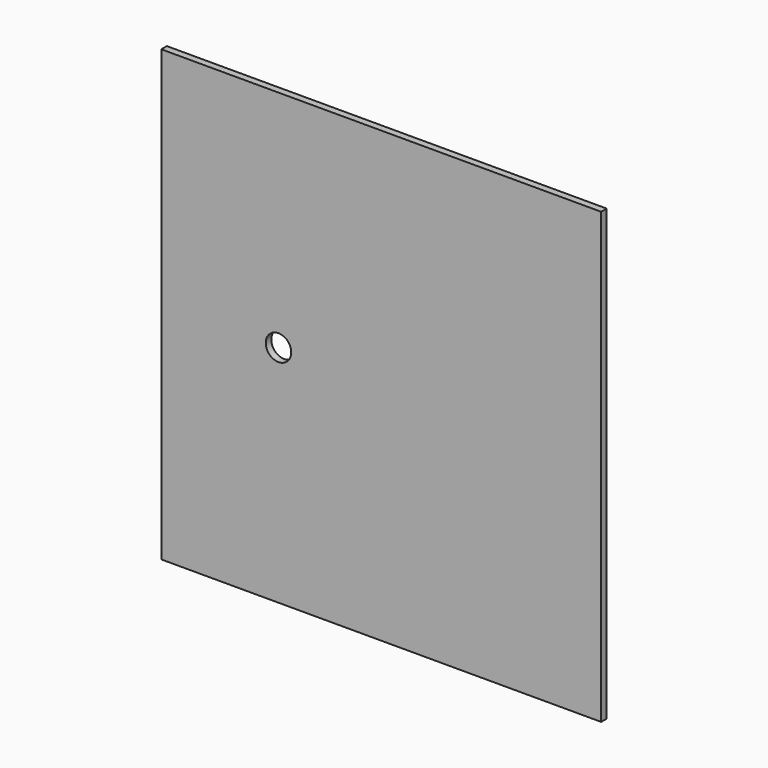
from build123d import *

# Parameters (mm, degrees)
F0_W     = 190
F0_H     = 194
F1_DEPTH = 3
F3_R     = 5.5
F4_DEPTH = 30


with BuildPart() as f1:
    # F0 (on Front) → F1 (new body)
    with BuildSketch(Plane.XZ):
        Rectangle(F0_W, F0_H)
    extrude(amount=F1_DEPTH)

    # F3 (on face) → F4 (cut)
    with BuildSketch(Plane.XZ.offset(3)):
        with Locations((-44.383418, 0)):
            Circle(F3_R)
    extrude(amount=-F4_DEPTH, mode=Mode.SUBTRACT)


solid = f1.part
